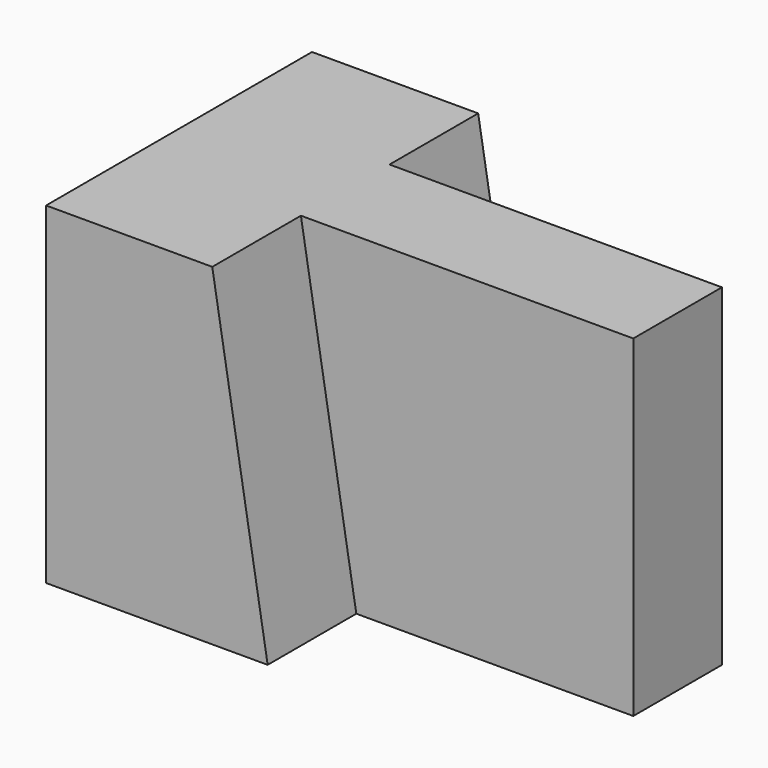
from build123d import *

# Parameters (mm, degrees)
F0_W     = 57.15
F0_H     = 38.1
F1_DEPTH = 38.1
F3_DEPTH = 12.7
F5_DEPTH = 12.7


with BuildPart() as f1:
    # F0 (on Front) → F1 (new body)
    with BuildSketch(Plane.XZ):
        with Locations((28.575, 19.05)):
            Rectangle(F0_W, F0_H)
    extrude(amount=-F1_DEPTH)

    # F2 (on face) → F3 (cut)
    with BuildSketch(Plane.XZ):
        Polygon((57.15, 38.1), (19.05, 38.1), (25.4, 0), (57.15, 0), align=None)
    extrude(amount=-F3_DEPTH, mode=Mode.SUBTRACT)

    # F4 (on face) → F5 (cut)
    with BuildSketch(Plane(origin=(0, 38.1, 0), x_dir=(-1, 0, 0), z_dir=(0, 1, 0))):
        Polygon((-25.4, 0), (-19.05, 38.1), (-57.15, 38.1), (-57.15, 0), align=None)
    extrude(amount=-F5_DEPTH, mode=Mode.SUBTRACT)


solid = f1.part
